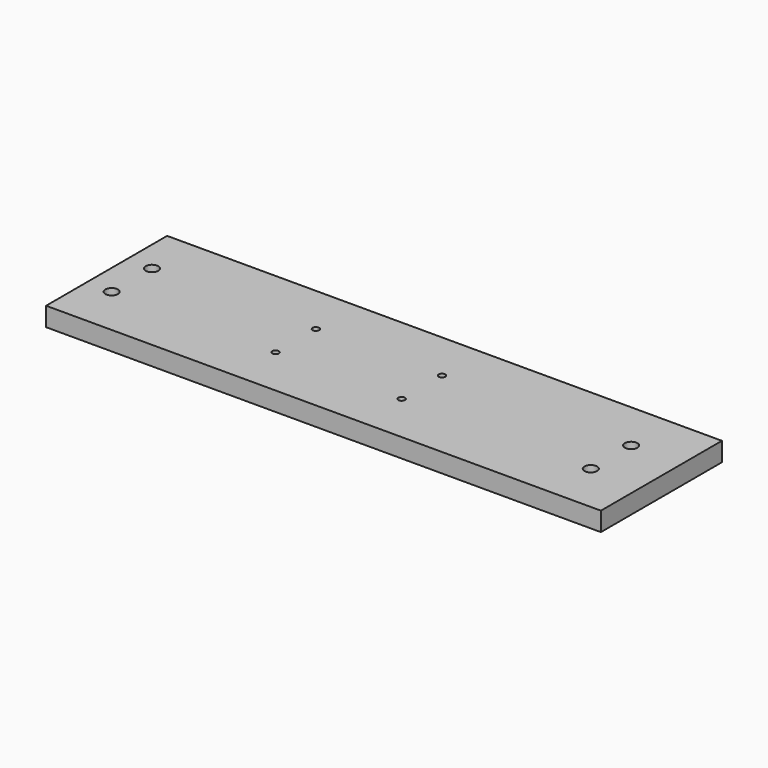
from build123d import *

# Parameters (mm, degrees)
F0_W     = 279.4
F0_H     = 76.2
F0_R     = 3.175
F0_R_2   = 1.651
F1_DEPTH = 4.7625


with BuildPart() as f1:
    # F0 (on Top) → F1 (new body, symmetric)
    with BuildSketch(Plane.XY):
        with Locations((-12.7, 0)):
            Rectangle(F0_W, F0_H)
        with Locations((-139.7, -12.7)):
            Circle(F0_R, mode=Mode.SUBTRACT)
        with Locations((-57.15, -12.7)):
            Circle(F0_R_2, mode=Mode.SUBTRACT)
        with Locations((6.35, -12.7)):
            Circle(F0_R_2, mode=Mode.SUBTRACT)
        with Locations((101.6, -12.7)):
            Circle(F0_R, mode=Mode.SUBTRACT)
        with Locations((-139.7, 12.7)):
            Circle(F0_R, mode=Mode.SUBTRACT)
        with Locations((-57.15, 12.7)):
            Circle(F0_R_2, mode=Mode.SUBTRACT)
        with Locations((6.35, 12.7)):
            Circle(F0_R_2, mode=Mode.SUBTRACT)
        with Locations((101.6, 12.7)):
            Circle(F0_R, mode=Mode.SUBTRACT)
    extrude(amount=F1_DEPTH, both=True)


solid = f1.part
